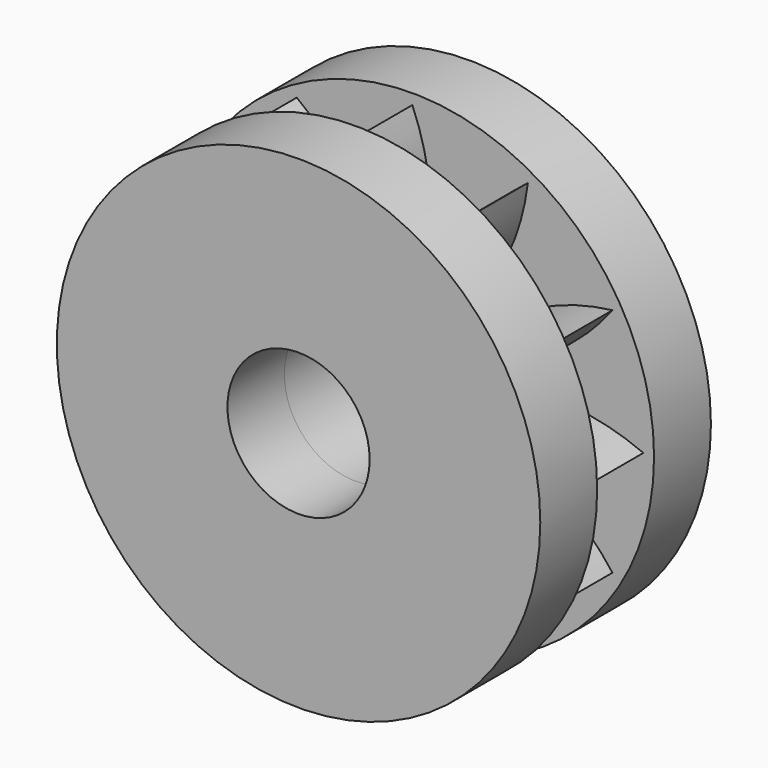
from build123d import *

# Parameters (mm, degrees)
F0_R      = 31.75
F0_R_2    = 25.4
F1_DEPTH  = 25.4
F2_R      = 86.36
F3_DEPTH  = 25.4
F3_FACE_R = 25.4
F4_DEPTH  = 50.8
F5_R      = 86.36
F5_R_2    = 25.4
F6_DEPTH  = 25.4


with BuildPart() as f1:
    # F0 (on Front) → F1 (new body)
    with BuildSketch(Plane.XZ):
        with BuildLine():
            ThreePointArc((-6.35, 43.99409), (0, 44.45), (6.35, 43.99409))
            ThreePointArc((6.35, 43.99409), (5.51657, 63.657692), (0, 82.55))
            ThreePointArc((0, 82.55), (-5.51657, 63.657692), (-6.35, 43.99409))
        make_face()
        with BuildLine():
            ThreePointArc((-27.496306, 34.925), (-22.225, 38.494829), (-16.497784, 41.275))
            ThreePointArc((-16.497784, 41.275), (-27.051357, 57.887463), (-41.275, 71.490397))
            ThreePointArc((-41.275, 71.490397), (-36.606335, 52.370894), (-27.496306, 34.925))
        make_face()
        with BuildLine():
            ThreePointArc((-41.275, 16.497784), (-38.494829, 22.225), (-34.925, 27.496307))
            ThreePointArc((-34.925, 27.496307), (-52.370894, 36.606335), (-71.490397, 41.275))
            ThreePointArc((-71.490397, 41.275), (-57.887463, 27.051357), (-41.275, 16.497784))
        make_face()
        with BuildLine():
            ThreePointArc((-43.99409, -6.35), (-44.45, 0), (-43.99409, 6.35))
            ThreePointArc((-43.99409, 6.35), (-63.657692, 5.51657), (-82.55, 0))
            ThreePointArc((-82.55, 0), (-63.657692, -5.51657), (-43.99409, -6.35))
        make_face()
        with BuildLine():
            ThreePointArc((-71.490397, -41.275), (-52.370894, -36.606335), (-34.925, -27.496306))
            ThreePointArc((-34.925, -27.496306), (-38.494829, -22.225), (-41.275, -16.497784))
            ThreePointArc((-41.275, -16.497784), (-57.887463, -27.051357), (-71.490397, -41.275))
        make_face()
        with BuildLine():
            ThreePointArc((-41.275, -71.490397), (-27.051357, -57.887463), (-16.497784, -41.275))
            ThreePointArc((-16.497784, -41.275), (-22.225, -38.494829), (-27.496307, -34.925))
            ThreePointArc((-27.496307, -34.925), (-36.606335, -52.370894), (-41.275, -71.490397))
        make_face()
        with BuildLine():
            ThreePointArc((0, -82.55), (5.51657, -63.657692), (6.35, -43.99409))
            ThreePointArc((6.35, -43.99409), (0, -44.45), (-6.35, -43.99409))
            ThreePointArc((-6.35, -43.99409), (-5.51657, -63.657692), (0, -82.55))
        make_face()
        with BuildLine():
            ThreePointArc((41.275, -71.490397), (36.606335, -52.370894), (27.496306, -34.925))
            ThreePointArc((27.496306, -34.925), (22.225, -38.494829), (16.497784, -41.275))
            ThreePointArc((16.497784, -41.275), (27.051357, -57.887463), (41.275, -71.490397))
        make_face()
        with BuildLine():
            ThreePointArc((71.490397, -41.275), (57.887463, -27.051357), (41.275, -16.497784))
            ThreePointArc((41.275, -16.497784), (38.494829, -22.225), (34.925, -27.496307))
            ThreePointArc((34.925, -27.496307), (52.370894, -36.606335), (71.490397, -41.275))
        make_face()
        with BuildLine():
            ThreePointArc((43.99409, 6.35), (44.335876, 3.183173), (44.45, 0))
            ThreePointArc((44.45, 0), (44.335876, -3.183173), (43.99409, -6.35))
            ThreePointArc((43.99409, -6.35), (63.657692, -5.51657), (82.55, 0))
            ThreePointArc((82.55, 0), (63.657692, 5.51657), (43.99409, 6.35))
        make_face()
        with BuildLine():
            ThreePointArc((34.925, 27.496306), (38.494829, 22.225), (41.275, 16.497784))
            ThreePointArc((41.275, 16.497784), (57.887463, 27.051357), (71.490397, 41.275))
            ThreePointArc((71.490397, 41.275), (52.370894, 36.606335), (34.925, 27.496306))
        make_face()
        with BuildLine():
            ThreePointArc((16.497784, 41.275), (22.225, 38.494829), (27.496307, 34.925))
            ThreePointArc((27.496307, 34.925), (36.606335, 52.370894), (41.275, 71.490397))
            ThreePointArc((41.275, 71.490397), (27.051357, 57.887463), (16.497784, 41.275))
        make_face()
        with BuildLine():
            ThreePointArc((43.99409, -6.35), (44.335876, -3.183173), (44.45, 0))
            ThreePointArc((44.45, 0), (44.335876, 3.183173), (43.99409, 6.35))
            ThreePointArc((43.99409, 6.35), (42.935403, 11.504506), (41.275, 16.497784))
            ThreePointArc((41.275, 16.497784), (38.494829, 22.225), (34.925, 27.496306))
            ThreePointArc((34.925, 27.496306), (31.430896, 31.430896), (27.496307, 34.925))
            ThreePointArc((27.496307, 34.925), (22.225, 38.494829), (16.497784, 41.275))
            ThreePointArc((16.497784, 41.275), (11.504507, 42.935403), (6.35, 43.99409))
            ThreePointArc((6.35, 43.99409), (0, 44.45), (-6.35, 43.99409))
            ThreePointArc((-6.35, 43.99409), (-11.504506, 42.935403), (-16.497784, 41.275))
            ThreePointArc((-16.497784, 41.275), (-22.225, 38.494829), (-27.496306, 34.925))
            ThreePointArc((-27.496306, 34.925), (-31.430896, 31.430896), (-34.925, 27.496307))
            ThreePointArc((-34.925, 27.496307), (-38.494829, 22.225), (-41.275, 16.497784))
            ThreePointArc((-41.275, 16.497784), (-42.935403, 11.504507), (-43.99409, 6.35))
            ThreePointArc((-43.99409, 6.35), (-44.45, 0), (-43.99409, -6.35))
            ThreePointArc((-43.99409, -6.35), (-42.935403, -11.504506), (-41.275, -16.497784))
            ThreePointArc((-41.275, -16.497784), (-38.494829, -22.225), (-34.925, -27.496306))
            ThreePointArc((-34.925, -27.496306), (-31.430896, -31.430896), (-27.496307, -34.925))
            ThreePointArc((-27.496307, -34.925), (-22.225, -38.494829), (-16.497784, -41.275))
            ThreePointArc((-16.497784, -41.275), (-11.504507, -42.935403), (-6.35, -43.99409))
            ThreePointArc((-6.35, -43.99409), (0, -44.45), (6.35, -43.99409))
            ThreePointArc((6.35, -43.99409), (11.504506, -42.935403), (16.497784, -41.275))
            ThreePointArc((16.497784, -41.275), (22.225, -38.494829), (27.496306, -34.925))
            ThreePointArc((27.496306, -34.925), (31.430896, -31.430896), (34.925, -27.496307))
            ThreePointArc((34.925, -27.496307), (38.494829, -22.225), (41.275, -16.497784))
            ThreePointArc((41.275, -16.497784), (42.935403, -11.504507), (43.99409, -6.35))
        make_face()
        Circle(F0_R, mode=Mode.SUBTRACT)
        Circle(F0_R)
        Circle(F0_R_2, mode=Mode.SUBTRACT)
    extrude(amount=F1_DEPTH)

    # F2 (on Front) → F3 (join)
    with BuildSketch(Plane.XZ):
        Circle(F2_R)
    extrude(amount=-F3_DEPTH)

    # F3_face (on face) → F4 (cut)
    with BuildSketch(Plane.XZ):
        Circle(F3_FACE_R)
    extrude(amount=-F4_DEPTH, mode=Mode.SUBTRACT)

    # F5 (on face) → F6 (join)
    with BuildSketch(Plane.XZ.offset(25.4)):
        Circle(F5_R)
        Circle(F5_R_2, mode=Mode.SUBTRACT)
    extrude(amount=F6_DEPTH)


solid = f1.part
